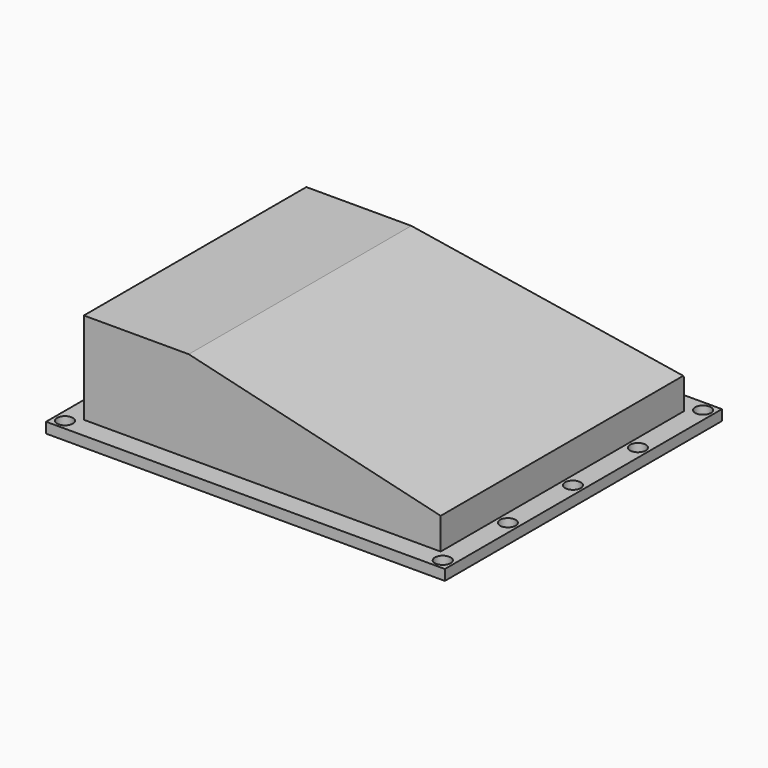
from build123d import *

# Parameters (mm, degrees)
F0_W     = 76
F0_H     = 66
F1_DEPTH = 2
F2_W     = 68
F2_H     = 58
F3_DEPTH = 17.5
F5_DEPTH = 75
F6_SIZE2 = 12
F6_SIZE  = 5
F7_R     = 1.5
F8_DEPTH = 25


with BuildPart() as f1:
    # F0 (on Top) → F1 (new body)
    with BuildSketch(Plane.XY):
        Rectangle(F0_W, F0_H)
    extrude(amount=F1_DEPTH)

    # F2 (on face) → F3 (join)
    with BuildSketch(Plane.XY.offset(2)):
        Rectangle(F2_W, F2_H)
    extrude(amount=F3_DEPTH)

    # F4 (on face) → F5 (cut)
    with BuildSketch(Plane(origin=(0, 29, 0), x_dir=(-1, 0, 0), z_dir=(0, 1, 0))):
        Polygon((14, 19.5), (-34, 19.5), (-34, 8), align=None)
    extrude(amount=-F5_DEPTH, mode=Mode.SUBTRACT)

    # F6
    f6_edges = [f1.edges().sort_by_distance(p)[0] for p in [
        (-24, 29, 19.5),
    ]]
    f6_side = f1.faces().sort_by_distance((-24, 0, 19.5))[0]
    chamfer(f6_edges, length=F6_SIZE, length2=F6_SIZE2, reference=f6_side)

    # F7 (on face) → F8 (cut)
    with BuildSketch(Plane.XY.offset(2)):
        with Locations((-36, 31)):
            Circle(F7_R)
        with Locations((-36, 0)):
            Circle(F7_R)
        with Locations((-36, -31)):
            Circle(F7_R)
        with Locations((36, 31)):
            Circle(F7_R)
        with Locations((36, 0)):
            Circle(F7_R)
        with Locations((36, -31)):
            Circle(F7_R)
        with Locations((-36, 15.5)):
            Circle(F7_R)
        with Locations((-36, -15.5)):
            Circle(F7_R)
        with Locations((36, 15.5)):
            Circle(F7_R)
        with Locations((36, -15.5)):
            Circle(F7_R)
    extrude(amount=-F8_DEPTH, mode=Mode.SUBTRACT)


solid = f1.part
